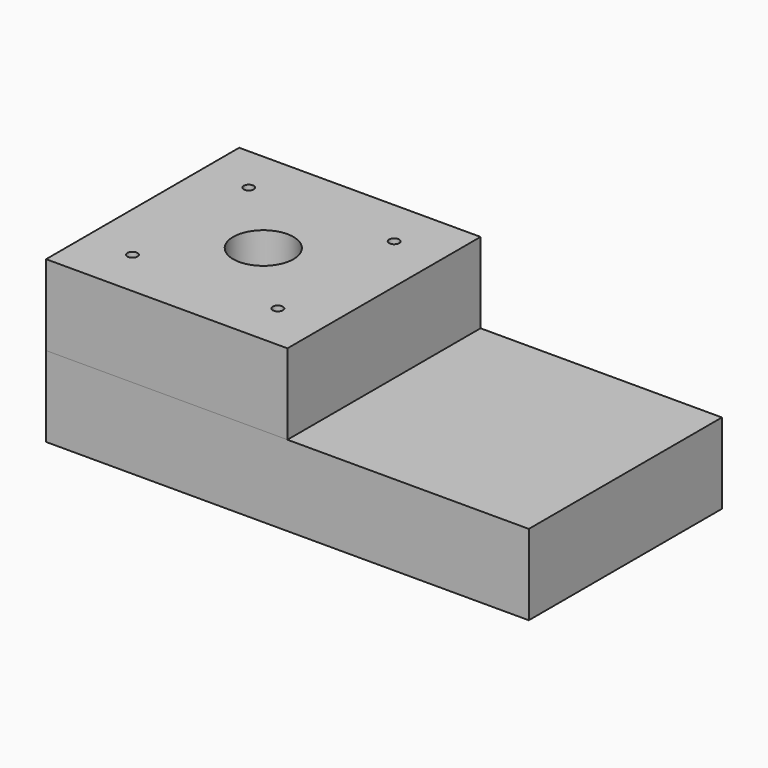
from build123d import *

# Parameters (mm, degrees)
F0_W     = 152.4
F0_H     = 76.2
F2_DEPTH = 25.4
F4_D     = 25.4
F5_D     = 3.175
F3_W     = 76.2
F3_H     = 76.2
F6_DEPTH = 25.4
F8_D     = 3.175
F8_2_D   = 3.175
F9_D     = 19.05


with BuildPart() as f2:
    # F0 (on Top) → F2 (new body)
    with BuildSketch(Plane.XY):
        Rectangle(F0_W, F0_H)
    extrude(amount=F2_DEPTH)

    # F4 (through all)
    with Locations(Plane(origin=(0, 0, 0), x_dir=(1, 0, 0), z_dir=(0, 0, -1))):
        with Locations((-38.1, 0)):
            Hole(F4_D / 2)

    # F5 (through all)
    with Locations(Plane(origin=(0, 0, 0), x_dir=(1, 0, 0), z_dir=(0, 0, -1))):
        with Locations((-38.1, 27.472701), (-38.1, -27.472701)):
            Hole(F5_D / 2)

    # F8 (through all)
    with Locations(Plane.XY.offset(50.8)):
        with Locations((-15.148959, 22.951041), (-15.148959, -22.951041), (-61.051041, -22.951041), (-61.051041, 22.951041)):
            Hole(F8_D / 2)


with BuildPart() as f6:
    # F3 (on face) → F6 (new body)
    with BuildSketch(Plane.XY.offset(25.4)):
        with Locations((-38.1, 0)):
            Rectangle(F3_W, F3_H)
    extrude(amount=F6_DEPTH)

    # F8#2 (through all)
    with Locations(Plane.XY.offset(50.8)):
        with Locations((-15.148959, 22.951041), (-15.148959, -22.951041), (-61.051041, -22.951041), (-61.051041, 22.951041)):
            Hole(F8_2_D / 2)

    # F9 (through all)
    with Locations(Plane(origin=(0, 0, 0), x_dir=(1, 0, 0), z_dir=(0, 0, -1))):
        with Locations((-38.1, 0)):
            Hole(F9_D / 2)


solid = Compound([f2.part, f6.part])
